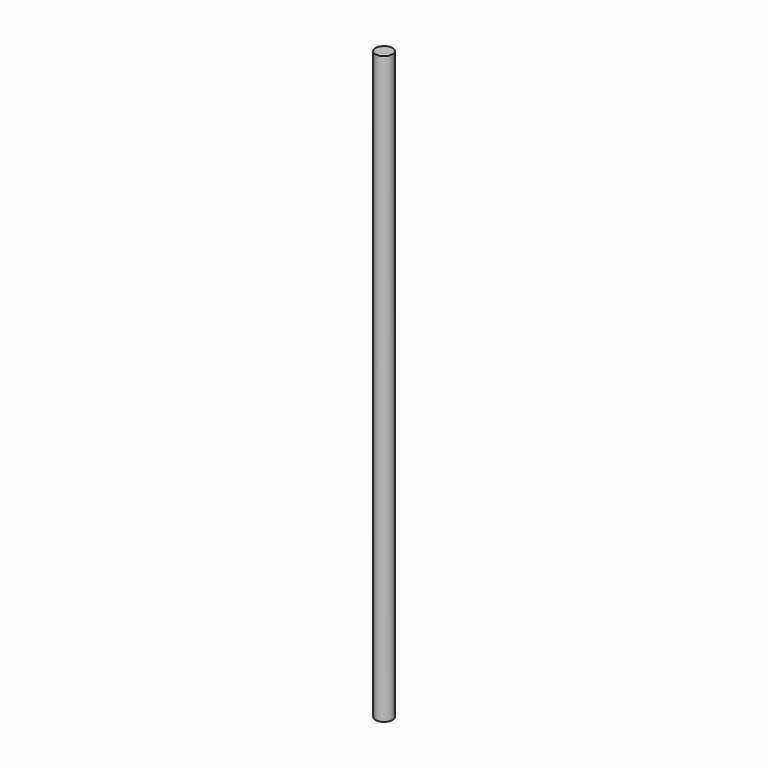
from build123d import *

# Parameters (mm, degrees)
SKETCH_R  = 8
PAD_DEPTH = 550


with BuildPart() as part:
    # Sketch → Pad (new body)
    with BuildSketch(Plane.XY):
        Circle(SKETCH_R)
    extrude(amount=PAD_DEPTH)


solid = part.part
